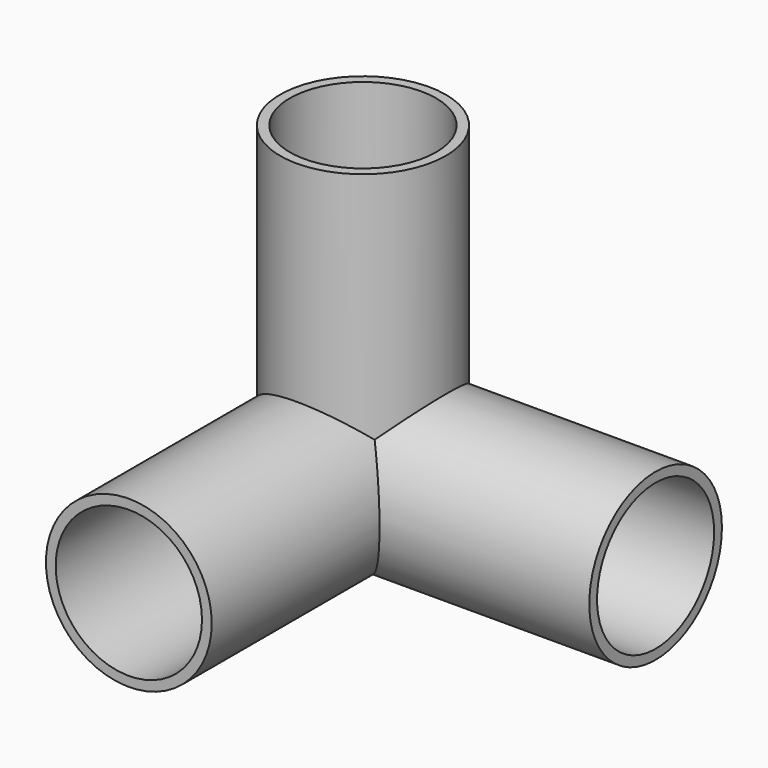
from build123d import *

# Parameters (mm, degrees)
F0_R     = 14.3891
F0_R_2   = 12.7
F1_DEPTH = 50.8
F2_R     = 14.3891
F2_R_2   = 12.7
F3_DEPTH = 50.8
F4_R     = 14.3891
F4_R_2   = 12.7
F5_DEPTH = 50.8


with BuildPart() as f1:
    # F0 (on Front) → F1 (new body)
    with BuildSketch(Plane.XZ):
        Circle(F0_R)
        Circle(F0_R_2, mode=Mode.SUBTRACT)
    extrude(amount=F1_DEPTH)

    # F2 (on Right) → F3 (join)
    with BuildSketch(Plane.YZ):
        Circle(F2_R)
        Circle(F2_R_2, mode=Mode.SUBTRACT)
    extrude(amount=F3_DEPTH)

    # F4 (on Top) → F5 (join)
    with BuildSketch(Plane.XY):
        Circle(F4_R)
        Circle(F4_R_2, mode=Mode.SUBTRACT)
    extrude(amount=F5_DEPTH)

    # F6 (on Front) → F7 (revolve)
    with BuildSketch(Plane.XZ):
        with BuildLine():
            ThreePointArc((14.3891, 0), (0, 14.3891), (-14.3891, 0))
            Line((-14.3891, 0), (14.3891, 0))
        make_face()
    revolve(axis=Axis((0, 0, 0), (1, 0, 0)))


solid = f1.part
